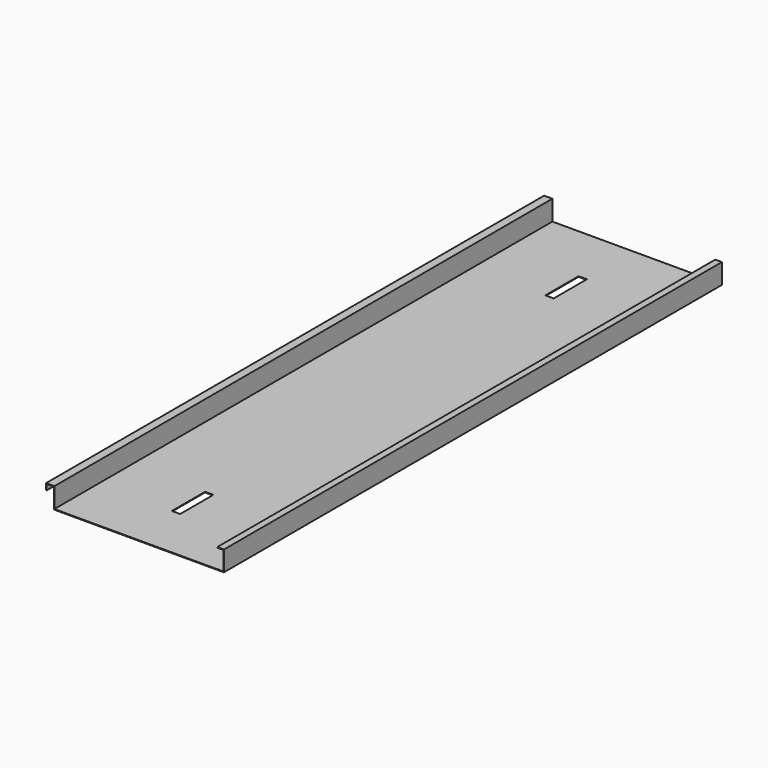
from build123d import *

# Parameters (mm, degrees)
F1_DEPTH = 1500
F2_W     = 20
F2_H     = 100
F3_DEPTH = 1.5


with BuildPart() as f1:
    # F0 (on Front) → F1 (new body)
    with BuildSketch(Plane.XZ):
        Polygon((9.56153, 65.133369), (9.56153, 16.633369), (419.56153, 16.633369), (419.56153, 65.133369), (403.56153, 65.133369), (403.56153, 63.633369), (418.06153, 63.633369), (418.06153, 18.133369), (11.06153, 18.133369), (11.06153, 66.633369), (-8.93847, 66.633369), (-8.93847, 51.633369), (-7.43847, 51.633369), (-7.43847, 65.133369), align=None)
    extrude(amount=-F1_DEPTH)

    # F2 (on face) → F3 (cut, through all)
    with BuildSketch(Plane.XY.offset(18.133369)):
        with Locations((198.56153, 182)):
            Rectangle(F2_W, F2_H)
        with Locations((198.56153, 1307)):
            Rectangle(F2_W, F2_H)
    extrude(amount=-F3_DEPTH, mode=Mode.SUBTRACT)


solid = f1.part
